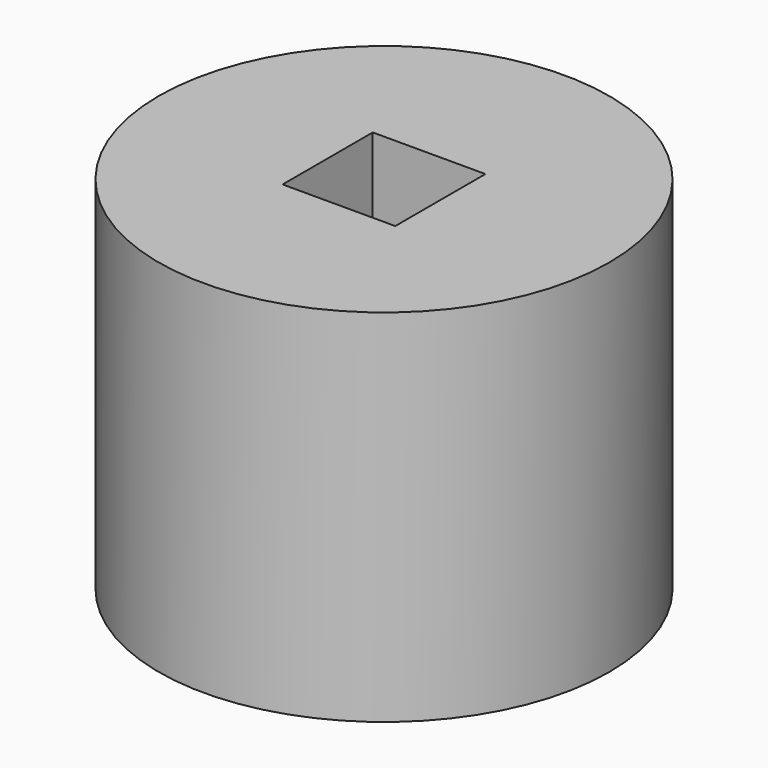
from build123d import *

# Parameters (mm, degrees)
F0_R     = 12.7
F1_DEPTH = 10.16
F2_W     = 3.175
F2_H     = 3.175
F3_DEPTH = 7.62
F4_R     = 2.7305
F5_DEPTH = 12.7


with BuildPart() as f1:
    # F0 (on Top) → F1 (new body, symmetric)
    with BuildSketch(Plane.XY):
        Circle(F0_R)
    extrude(amount=F1_DEPTH, both=True)

    # F2 (on face) → F3 (cut, symmetric)
    with BuildSketch(Plane.XY.offset(10.16)):
        with Locations((-1.5875, 1.5875)):
            Rectangle(F2_W, F2_H)
        with Locations((1.5875, 1.5875)):
            Rectangle(F2_W, F2_H)
        with Locations((-1.5875, -1.5875)):
            Rectangle(F2_W, F2_H)
        with Locations((1.5875, -1.5875)):
            Rectangle(F2_W, F2_H)
    extrude(amount=F3_DEPTH, both=True, mode=Mode.SUBTRACT)

    # F4 (on face) → F5 (cut, symmetric)
    with BuildSketch(Plane(origin=(0, 0, -10.16), x_dir=(1, 0, 0), z_dir=(0, 0, -1))):
        Circle(F4_R)
    extrude(amount=F5_DEPTH, both=True, mode=Mode.SUBTRACT)


solid = f1.part
